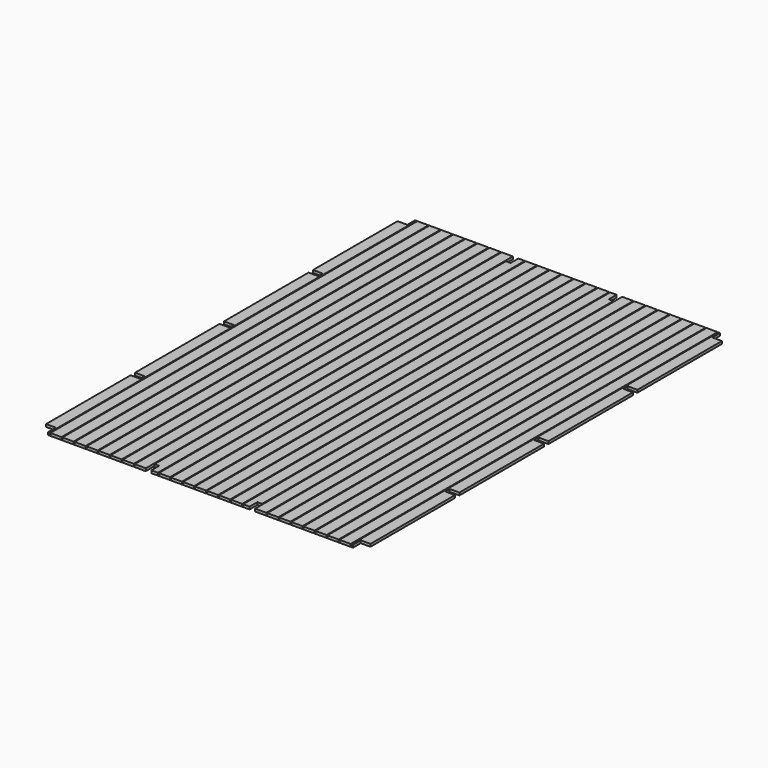
from build123d import *

# Parameters (mm, degrees)
F0_W          = 3500
F0_H          = 28
F1_DEPTH      = 2475
F2_W          = 10
F2_H          = 23
F3_DEPTH      = 2475
F3_DEPTH_BACK = 2475
F4_W          = 105
F4_H          = 105
F4_W_2        = 60
F4_H_2        = 60
F5_DEPTH      = 28


with BuildPart() as f1:
    # F0 (on Front) → F1 (new body, symmetric)
    with BuildSketch(Plane.XZ):
        with Locations((0, 14)):
            Rectangle(F0_W, F0_H)
    extrude(amount=F1_DEPTH, both=True)

    # F2 (on Front) → F3 (cut, two sides)
    with BuildSketch(Plane.XZ) as f3_sk:
        with Locations((-1625, 16.5)):
            Rectangle(F2_W, F2_H)
        with Locations((-1495, 16.5)):
            Rectangle(F2_W, F2_H)
        with Locations((-1365, 16.5)):
            Rectangle(F2_W, F2_H)
        with Locations((-1235, 16.5)):
            Rectangle(F2_W, F2_H)
        with Locations((-1105, 16.5)):
            Rectangle(F2_W, F2_H)
        with Locations((-975, 16.5)):
            Rectangle(F2_W, F2_H)
        with Locations((-845, 16.5)):
            Rectangle(F2_W, F2_H)
        with Locations((-715, 16.5)):
            Rectangle(F2_W, F2_H)
        with Locations((-585, 16.5)):
            Rectangle(F2_W, F2_H)
        with Locations((-455, 16.5)):
            Rectangle(F2_W, F2_H)
        with Locations((-325, 16.5)):
            Rectangle(F2_W, F2_H)
        with Locations((-195, 16.5)):
            Rectangle(F2_W, F2_H)
        with Locations((-65, 16.5)):
            Rectangle(F2_W, F2_H)
        with Locations((65, 16.5)):
            Rectangle(F2_W, F2_H)
        with Locations((195, 16.5)):
            Rectangle(F2_W, F2_H)
        with Locations((325, 16.5)):
            Rectangle(F2_W, F2_H)
        with Locations((455, 16.5)):
            Rectangle(F2_W, F2_H)
        with Locations((585, 16.5)):
            Rectangle(F2_W, F2_H)
        with Locations((715, 16.5)):
            Rectangle(F2_W, F2_H)
        with Locations((845, 16.5)):
            Rectangle(F2_W, F2_H)
        with Locations((975, 16.5)):
            Rectangle(F2_W, F2_H)
        with Locations((1105, 16.5)):
            Rectangle(F2_W, F2_H)
        with Locations((1235, 16.5)):
            Rectangle(F2_W, F2_H)
        with Locations((1365, 16.5)):
            Rectangle(F2_W, F2_H)
        with Locations((1495, 16.5)):
            Rectangle(F2_W, F2_H)
        with Locations((1625, 16.5)):
            Rectangle(F2_W, F2_H)
    extrude(amount=-F3_DEPTH, mode=Mode.SUBTRACT)
    extrude(f3_sk.sketch, amount=F3_DEPTH_BACK, mode=Mode.SUBTRACT)

    # F4 (on Top) → F5 (cut, through all)
    with BuildSketch(Plane.XY):
        with Locations((-1697.5, -2422.5)):
            Rectangle(F4_W, F4_H)
        with Locations((1697.5, -2422.5)):
            Rectangle(F4_W, F4_H)
        with Locations((1697.5, 2422.5)):
            Rectangle(F4_W, F4_H)
        with Locations((-1697.5, 2422.5)):
            Rectangle(F4_W, F4_H)
        with Locations((-560, -2422.5)):
            Rectangle(F4_W_2, F4_H)
        with Locations((560, -2422.5)):
            Rectangle(F4_W_2, F4_H)
        with Locations((-560, 2422.5)):
            Rectangle(F4_W_2, F4_H)
        with Locations((560, 2422.5)):
            Rectangle(F4_W_2, F4_H)
        with Locations((-1697.5, -1200)):
            Rectangle(F4_W, F4_H_2)
        with Locations((-1697.5, 0)):
            Rectangle(F4_W, F4_H_2)
        with Locations((-1697.5, 1200)):
            Rectangle(F4_W, F4_H_2)
        with Locations((1697.5, 1200)):
            Rectangle(F4_W, F4_H_2)
        with Locations((1697.5, 0)):
            Rectangle(F4_W, F4_H_2)
        with Locations((1697.5, -1200)):
            Rectangle(F4_W, F4_H_2)
    extrude(amount=F5_DEPTH, mode=Mode.SUBTRACT)


solid = f1.part
